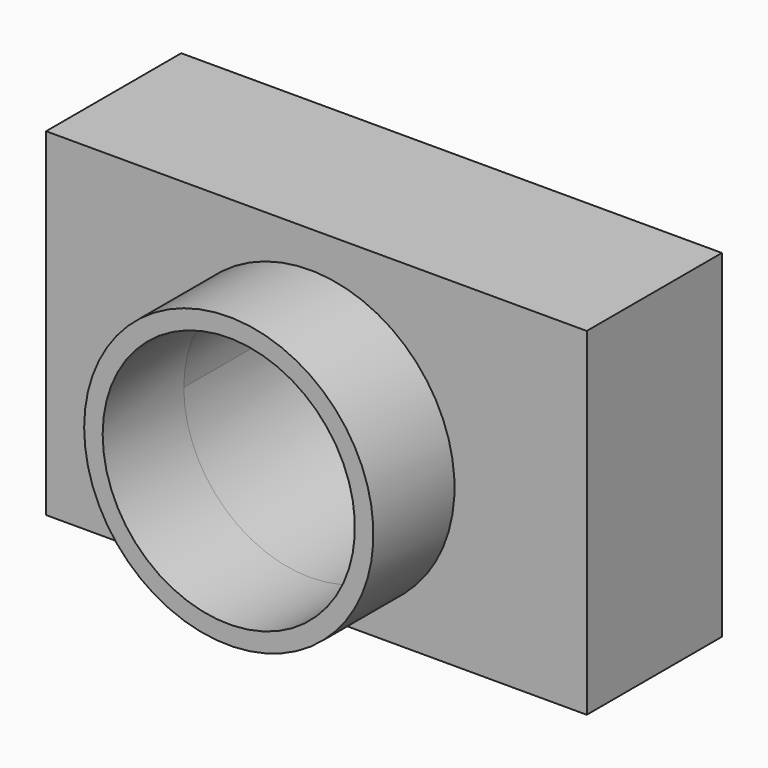
from build123d import *

# Parameters (mm, degrees)
F0_W     = 80
F0_H     = 50
F1_DEPTH = 25
F2_R     = 18.6615462825
F3_DEPTH = 45.6
F4_R     = 21.4002075556
F4_R_2   = 18.6615462825
F5_DEPTH = 40


with BuildPart() as f1:
    # F0 (on Front) → F1 (new body)
    with BuildSketch(Plane.XZ):
        with Locations((0.9671058506, -12.7448502543)):
            Rectangle(F0_W, F0_H)
    extrude(amount=F1_DEPTH)

    # F2 (on Front) → F3 (cut, symmetric)
    with BuildSketch(Plane.XZ):
        with Locations((0, -14.5065793768)):
            Circle(F2_R)
    extrude(amount=F3_DEPTH, both=True, mode=Mode.SUBTRACT)

    # F4 (on face) → F5 (join)
    with BuildSketch(Plane(origin=(0, 0, 0), x_dir=(-1, 0, 0), z_dir=(0, 1, 0))):
        with Locations((0, -14.5065793768)):
            Circle(F4_R)
        with Locations((0, -14.5065793768)):
            Circle(F4_R_2, mode=Mode.SUBTRACT)
    extrude(amount=-F5_DEPTH)


solid = f1.part
